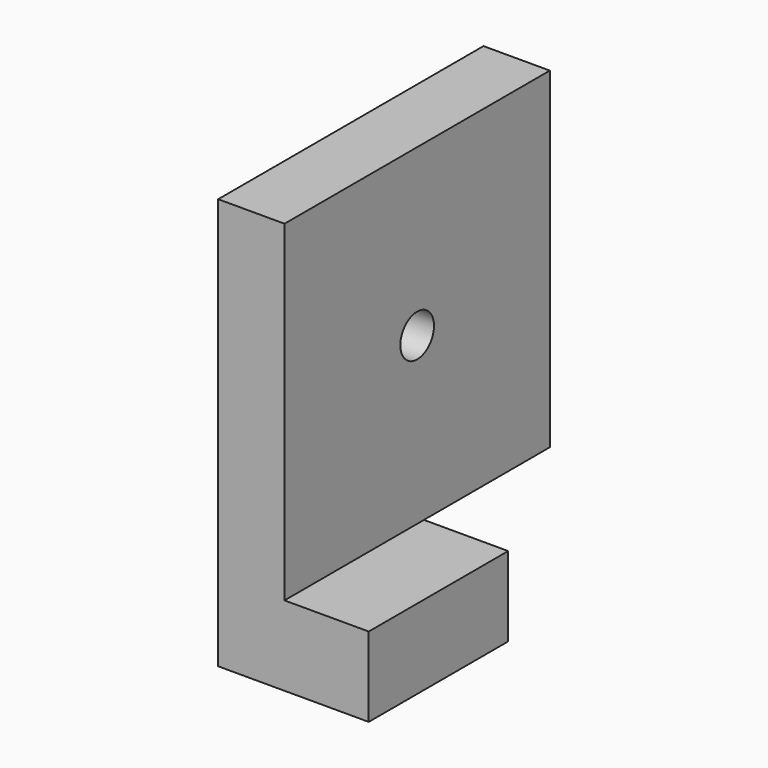
from build123d import *

# Parameters (mm, degrees)
F0_W           = 13.1409592241
F0_H           = 6
F1_DEPTH       = 5
F3_D           = 3.175
F3_CBORE_D     = 5.715
F3_CBORE_DEPTH = 1.905
F4_W           = 13.1409592241
F4_H           = 6
F5_DEPTH       = 6.35


with BuildPart() as f1:
    # F0 (on Right) → F1 (new body)
    with BuildSketch(Plane.YZ):
        with Locations((-33.4253355518, -3)):
            Rectangle(F0_W, F0_H)
        Polygon((-14.9958151639, 25), (-39.9958151639, 25), (-39.9958151639, 0), (-26.8548559397, 0), (-14.9958151639, 0), align=None)
    extrude(amount=F1_DEPTH)

    # F3 (through all)
    with Locations(Plane(origin=(0, 0, 0), x_dir=(0, -1, 0), z_dir=(-1, 0, 0))):
        with Locations((27.4958151639, 12.5)):
            CounterBoreHole(F3_D / 2, F3_CBORE_D / 2, F3_CBORE_DEPTH)

    # F4 (on face) → F5 (join)
    with BuildSketch(Plane.YZ.offset(5)):
        with Locations((-33.4253355518, -3)):
            Rectangle(F4_W, F4_H)
    extrude(amount=F5_DEPTH)


solid = f1.part
